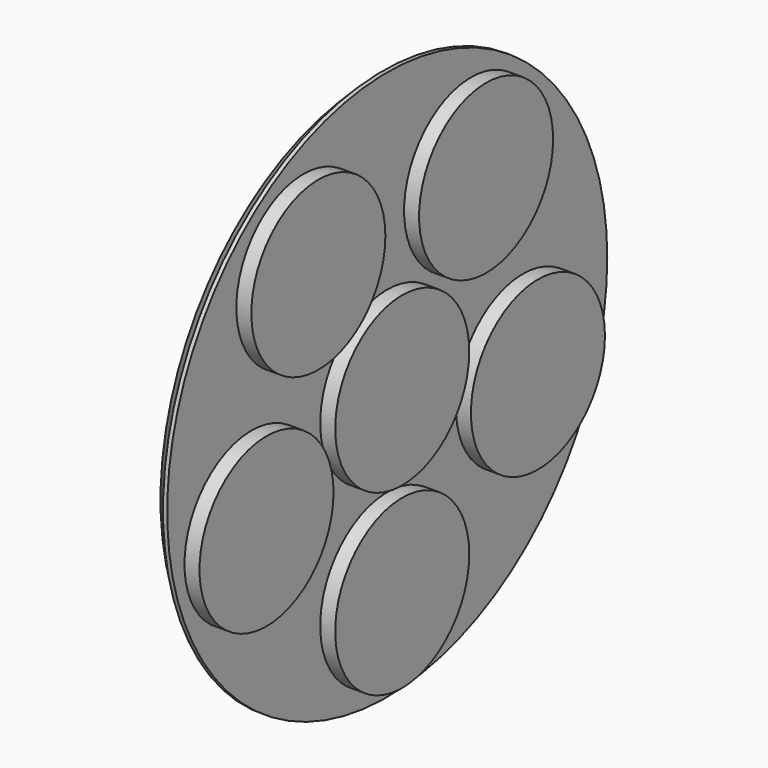
from build123d import *

# Parameters (mm, degrees)
F0_R     = 16.5
F1_DEPTH = 1
F2_R     = 5.025
F3_DEPTH = 0.9
F4_SIZE  = 0.75


with BuildPart() as f1:
    # F0 (on Right) → F1 (new body)
    with BuildSketch(Plane.YZ):
        Circle(F0_R)
    extrude(amount=F1_DEPTH)

    # F2 (on face) → F3 (join)
    with BuildSketch(Plane.YZ.offset(1)):
        Circle(F2_R)
        with Locations((0, -10.7)):
            Circle(F2_R)
        with Locations((10.176305, -3.306482)):
            Circle(F2_R)
        with Locations((6.289302, 8.656482)):
            Circle(F2_R)
        with Locations((-6.289302, 8.656482)):
            Circle(F2_R)
        with Locations((-10.176305, -3.306482)):
            Circle(F2_R)
    extrude(amount=F3_DEPTH)

    # F4
    f4_edges = [f1.edges().sort_by_distance(p)[0] for p in [
        (0, -16.5, 0),
    ]]
    chamfer(f4_edges, length=F4_SIZE)


solid = f1.part
